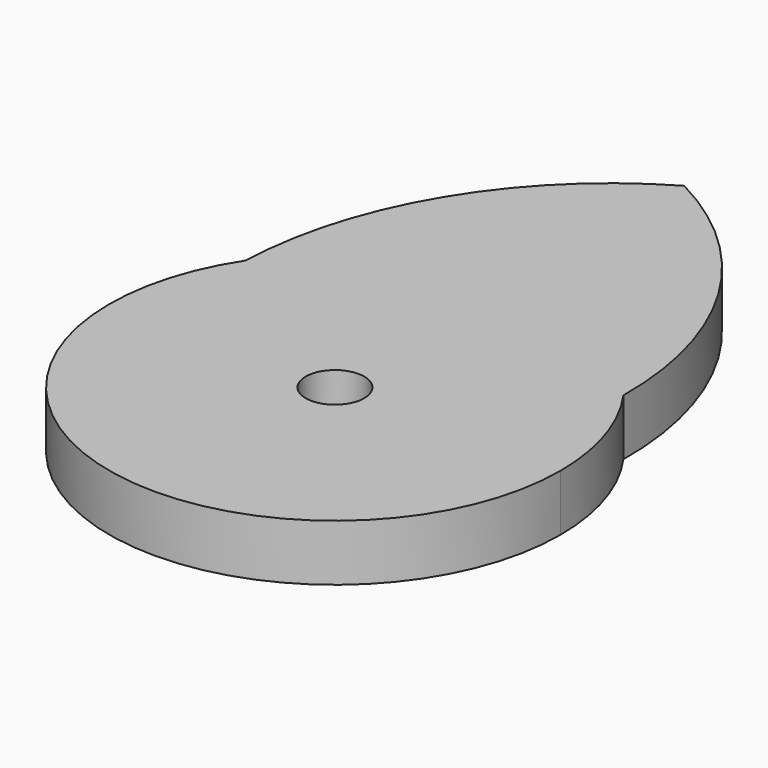
from build123d import *

# Parameters (mm, degrees)
F0_R     = 3.302
F1_DEPTH = 6.35


with BuildPart() as f1:
    # F0 (on Top) → F1 (new body)
    with BuildSketch(Plane.XY):
        with BuildLine():
            ThreePointArc((-21.215855, 13.965941), (-7.289626, -24.331489), (25.4, 0))
            ThreePointArc((25.4, 0), (24.207914, 7.690052), (20.743551, 14.658278))
            ThreePointArc((20.743551, 14.658278), (-0.419047, 25.396543), (-21.215855, 13.965941))
        make_face()
        Circle(F0_R, mode=Mode.SUBTRACT)
        with BuildLine():
            ThreePointArc((-21.215855, 13.965941), (-0.419047, 25.396543), (20.743551, 14.658278))
            ThreePointArc((20.743551, 14.658278), (15.267392, 34.846937), (0, 49.146485))
            ThreePointArc((0, 49.146485), (-15.17191, 34.308552), (-21.215855, 13.965941))
        make_face()
    extrude(amount=F1_DEPTH)


solid = f1.part
